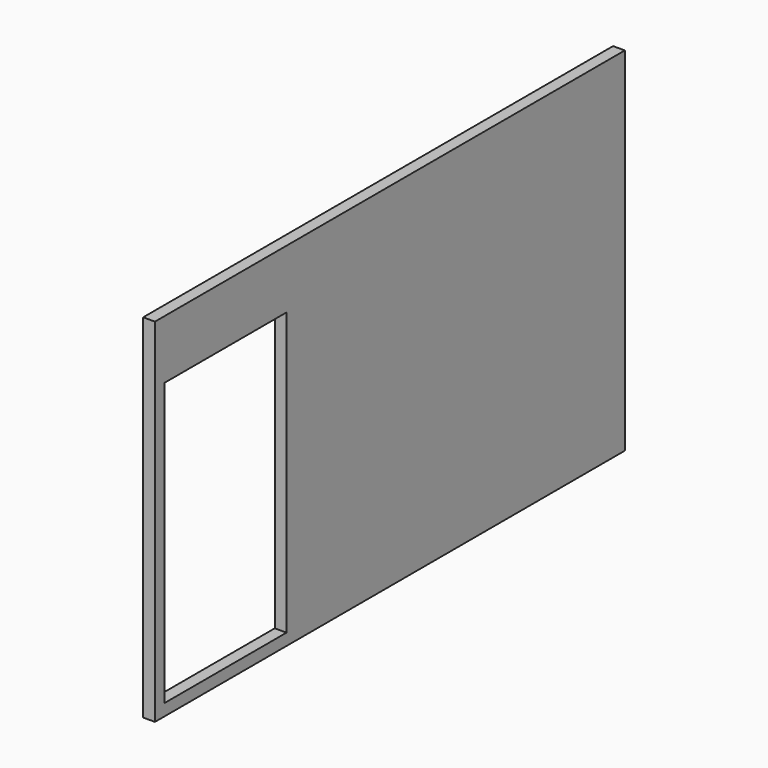
from build123d import *

# Parameters (mm, degrees)
F0_W     = 33.02
F0_H     = 2.54
F1_DEPTH = 2.54


with BuildPart() as f1:
    # F0 (on Right) → F1 (new body)
    with BuildSketch(Plane.YZ):
        Polygon((-66.130889, 59.53698), (-66.130889, 46.83698), (-63.590889, 46.83698), (-30.570889, 46.83698), (-30.570889, -14.12302), (-30.570889, -16.66302), (60.869111, -16.66302), (60.869111, 59.53698), align=None)
        Polygon((-66.130889, 46.83698), (-66.130889, -16.66302), (-63.590889, -16.66302), (-63.590889, -14.12302), (-63.590889, 46.83698), align=None)
        with Locations((-47.080889, -15.39302)):
            Rectangle(F0_W, F0_H)
    extrude(amount=F1_DEPTH)


solid = f1.part
